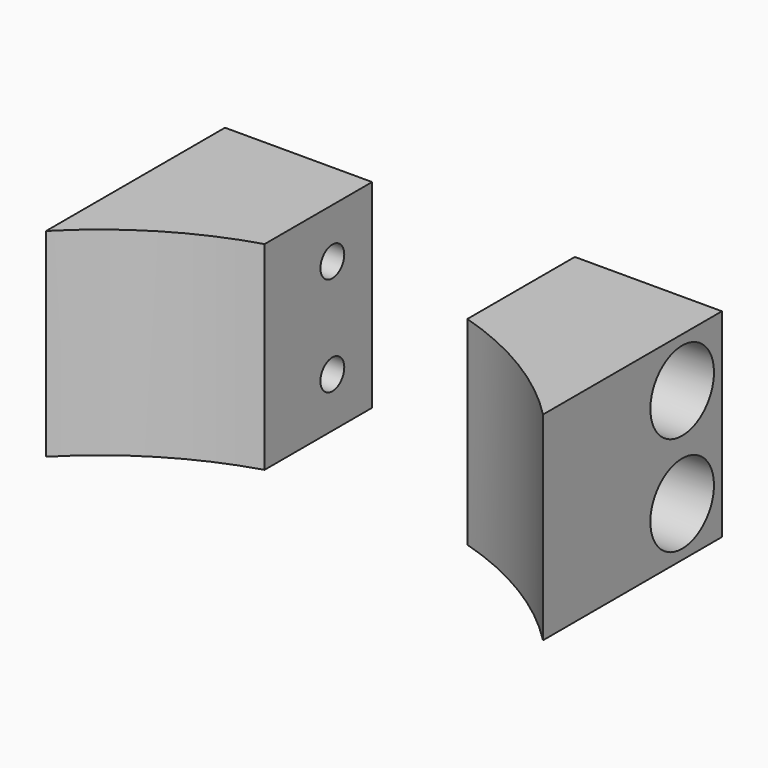
from build123d import *

# Parameters (mm, degrees)
CYLINDER1981_R     = 1.5
CYLINDER1981_DEPTH = 20
CYLINDER1985_R     = 1.5
CYLINDER1985_DEPTH = 20
CYLINDER1987_R     = 1.5
CYLINDER1987_DEPTH = 20
CYLINDER1973_R     = 1.5
CYLINDER1973_DEPTH = 20
CYLINDER1978_R     = 4
CYLINDER1978_DEPTH = 20
CYLINDER1988_R     = 4
CYLINDER1988_DEPTH = 20
CYLINDER1986_R     = 4
CYLINDER1986_DEPTH = 20
CYLINDER1976_R     = 4
CYLINDER1976_DEPTH = 20
BOX764_W           = 20.4
BOX764_H           = 27
BOX764_DEPTH       = 20
CYLINDER1983_R     = 35
CYLINDER1983_DEPTH = 20
BOX766_W           = 50
BOX766_H           = 32
BOX766_DEPTH       = 20


with BuildPart() as obj1:
    # Cylinder1981 → Cylinder1981 (new body)
    with BuildSketch(Plane(origin=(-24, 38, 25), x_dir=(0, 0, -1), z_dir=(1, 0, 0))):
        Circle(CYLINDER1981_R)
    extrude(amount=CYLINDER1981_DEPTH)


with BuildPart() as obj2:
    # Cylinder1985 → Cylinder1985 (new body)
    with BuildSketch(Plane(origin=(4, 38, 15), x_dir=(0, 0, -1), z_dir=(1, 0, 0))):
        Circle(CYLINDER1985_R)
    extrude(amount=CYLINDER1985_DEPTH)


with BuildPart() as obj3:
    # Cylinder1987 → Cylinder1987 (new body)
    with BuildSketch(Plane(origin=(-24, 38, 15), x_dir=(0, 0, -1), z_dir=(1, 0, 0))):
        Circle(CYLINDER1987_R)
    extrude(amount=CYLINDER1987_DEPTH)


with BuildPart() as compound940:
    # Cylinder1973 → Cylinder1973 (new body)
    with BuildSketch(Plane(origin=(4, 38, 25), x_dir=(0, 0, -1), z_dir=(1, 0, 0))):
        Circle(CYLINDER1973_R)
    extrude(amount=CYLINDER1973_DEPTH)

    # Compound940: union obj1, obj2, obj3
    add(obj1.part)
    add(obj2.part)
    add(obj3.part)


with BuildPart() as compound940_1:
    # Compound940 placement: moved
    add(compound940.part.moved(Location((0, 4, 0))))


with BuildPart() as obj4:
    # Cylinder1978 → Cylinder1978 (new body)
    with BuildSketch(Plane(origin=(-38, 38, 25), x_dir=(0, 0, -1), z_dir=(1, 0, 0))):
        Circle(CYLINDER1978_R)
    extrude(amount=CYLINDER1978_DEPTH)


with BuildPart() as obj5:
    # Cylinder1988 → Cylinder1988 (new body)
    with BuildSketch(Plane(origin=(18, 38, 15), x_dir=(0, 0, -1), z_dir=(1, 0, 0))):
        Circle(CYLINDER1988_R)
    extrude(amount=CYLINDER1988_DEPTH)


with BuildPart() as obj6:
    # Cylinder1986 → Cylinder1986 (new body)
    with BuildSketch(Plane(origin=(-38, 38, 15), x_dir=(0, 0, -1), z_dir=(1, 0, 0))):
        Circle(CYLINDER1986_R)
    extrude(amount=CYLINDER1986_DEPTH)


with BuildPart() as compound937:
    # Cylinder1976 → Cylinder1976 (new body)
    with BuildSketch(Plane(origin=(18, 38, 25), x_dir=(0, 0, -1), z_dir=(1, 0, 0))):
        Circle(CYLINDER1976_R)
    extrude(amount=CYLINDER1976_DEPTH)

    # Compound937: union obj4, obj5, obj6
    add(obj4.part)
    add(obj5.part)
    add(obj6.part)


with BuildPart() as compound937_1:
    # Compound937 placement: moved
    add(compound937.part.moved(Location((0, 4, 0))))


with BuildPart() as krychle764:
    # Box764 → Box764 (new body)
    with BuildSketch(Plane(origin=(-10.2, 20, 10), x_dir=(1, 0, 0), z_dir=(0, 0, 1))):
        with Locations((10.2, 13.5)):
            Rectangle(BOX764_W, BOX764_H)
    extrude(amount=BOX764_DEPTH)


with BuildPart() as obj7:
    # Cylinder1983 → Cylinder1983 (new body)
    with BuildSketch(Plane.XY.offset(10)):
        Circle(CYLINDER1983_R)
    extrude(amount=CYLINDER1983_DEPTH)


with BuildPart() as cut594:
    # Box766 → Box766 (new body)
    with BuildSketch(Plane(origin=(-25, 15, 10), x_dir=(1, 0, 0), z_dir=(0, 0, 1))):
        with Locations((25, 16)):
            Rectangle(BOX766_W, BOX766_H)
    extrude(amount=BOX766_DEPTH)

    # Cut592: cut obj7
    add(obj7.part, mode=Mode.SUBTRACT)

    # Cut595: cut Krychle764
    add(krychle764.part, mode=Mode.SUBTRACT)

    # Cut596: cut Compound937
    add(compound937_1.part, mode=Mode.SUBTRACT)

    # Cut594: cut Compound940
    add(compound940_1.part, mode=Mode.SUBTRACT)


solid = cut594.part
